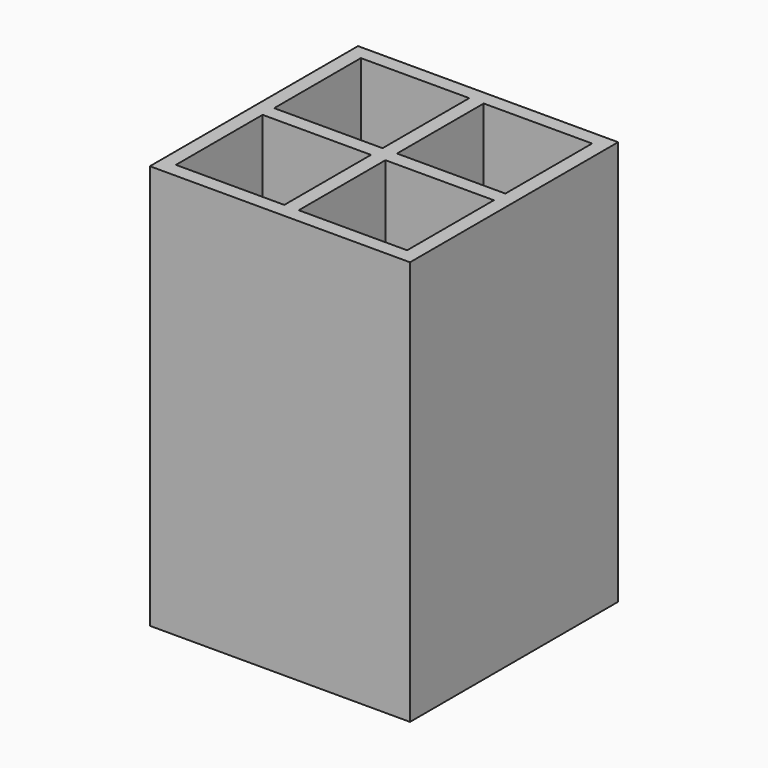
from build123d import *

# Parameters (mm, degrees)
F0_W      = 57.15
F0_H      = 88.9
F1_DEPTH  = 3.175
F1_FACE_W = 57.15
F1_FACE_H = 88.9
F2_DEPTH  = 57.15
F4_W      = 23.8125
F4_H      = 23.8125
F5_W      = 23.8125
F5_H      = 23.8125
F6_W      = 23.8125
F6_H      = 23.8125
F7_DEPTH  = 85.725


with BuildPart() as f1:
    # F0 (on Front) → F1 (new body)
    with BuildSketch(Plane.XZ):
        Rectangle(F0_W, F0_H)
    extrude(amount=F1_DEPTH)

    # F1_face (on face) → F2 (join)
    with BuildSketch(Plane(origin=(0, 0, 0), x_dir=(1, 0, 0), z_dir=(0, 1, 0))):
        Rectangle(F1_FACE_W, F1_FACE_H)
    extrude(amount=-F2_DEPTH)

    # F4 (on face) + F5 (on face) + F6 (on face) → F7 (cut)
    with BuildSketch(Plane.XY.offset(44.45)):
        with Locations((-13.49375, -15.08125)):
            Rectangle(F4_W, F4_H)
        with Locations((13.49375, -15.08125)):
            Rectangle(F4_W, F4_H)
    with BuildSketch(Plane.XY.offset(44.45)):
        with Locations((-13.49375, -42.06875)):
            Rectangle(F5_W, F5_H)
    with BuildSketch(Plane.XY.offset(44.45)):
        with Locations((13.49375, -42.06875)):
            Rectangle(F6_W, F6_H)
    extrude(amount=-F7_DEPTH, mode=Mode.SUBTRACT)


solid = f1.part
